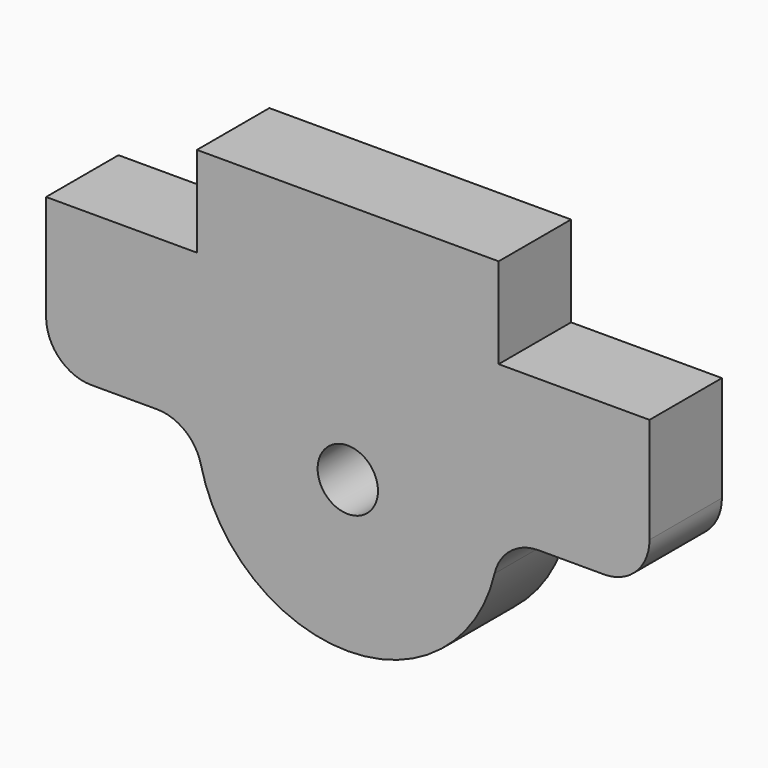
from build123d import *

# Parameters (mm, degrees)
F1_DEPTH = 6
F3_R     = 3
F2_R     = 2
F4_DEPTH = 6.001


with BuildPart() as f1:
    # F0 (on Front) → F1 (new body)
    with BuildSketch(Plane.XZ):
        with BuildLine():
            Line((10, 0), (0, 0))
            Line((0, 0), (-10, 0))
            Line((-10, 0), (-10, -6))
            Line((-10, -6), (-20, -6))
            Line((-20, -6), (-20, -16))
            Line((-20, -16), (-10, -16))
            ThreePointArc((-10, -16), (-7.071068, -23.071068), (0, -26))
            ThreePointArc((0, -26), (7.071068, -23.071068), (10, -16))
            Line((10, -16), (20, -16))
            Line((20, -16), (20, -6))
            Line((20, -6), (10, -6))
            Line((10, -6), (10, 0))
        make_face()
    extrude(amount=F1_DEPTH)

    # F3
    f3_edges = [f1.edges().sort_by_distance(p)[0] for p in [
        (10, -3, -16),
        (-10, -3, -16),
        (20, -3, -16),
        (-20, -3, -16),
    ]]
    fillet(f3_edges, radius=F3_R)

    # F2 (on face) → F4 (cut, through all)
    with BuildSketch(Plane.XZ.offset(6)):
        with Locations((0, -16)):
            Circle(F2_R)
    extrude(amount=-F4_DEPTH, mode=Mode.SUBTRACT)


solid = f1.part
